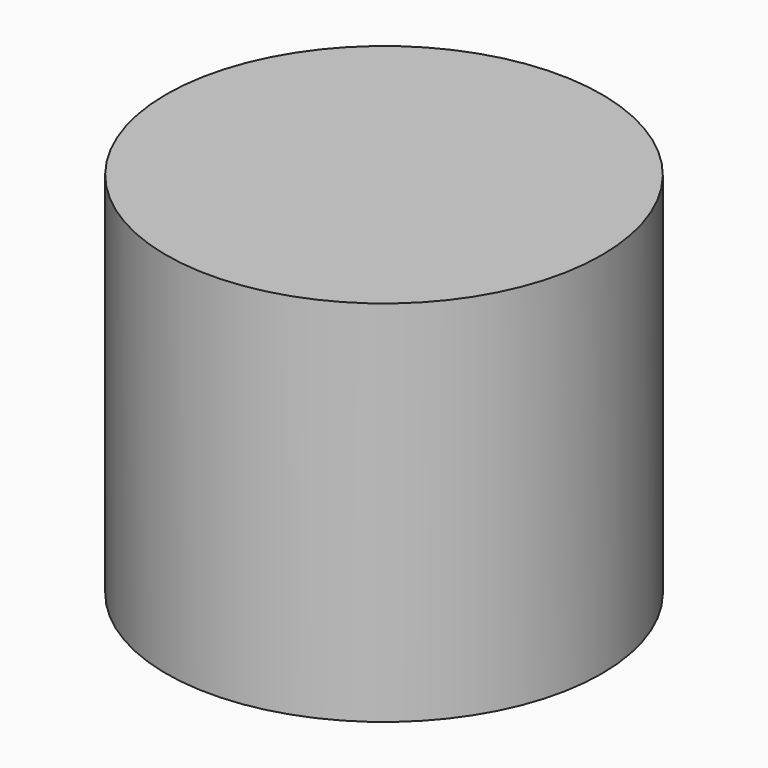
from build123d import *

# Parameters (mm, degrees)
CYLINDER_R     = 8.8646
CYLINDER_DEPTH = 15


with BuildPart() as part:
    # Cylinder → Cylinder (new body)
    with BuildSketch(Plane.XY.offset(-2.5)):
        Circle(CYLINDER_R)
    extrude(amount=CYLINDER_DEPTH)


solid = part.part
